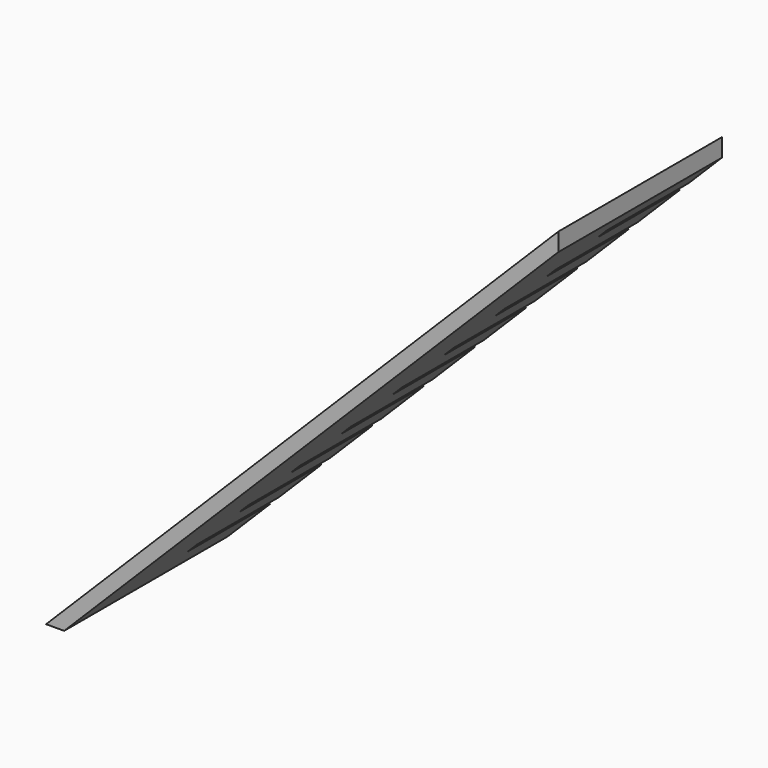
from build123d import *

# Parameters (mm, degrees)
F1_DEPTH = 152.4
F2_W     = 152.4
F2_H     = 19.05
F3_DEPTH = 19.05


with BuildPart() as f1:
    # F0 (on Front) → F1 (new body, symmetric)
    with BuildSketch(Plane.XZ):
        Polygon((341.7983155697, 763.3217702909), (-421.5234547212, 0), (-394.582686358, 0), (341.7983155697, 736.3810019277), align=None)
    extrude(amount=F1_DEPTH, both=True)

    # F2 (on face) → F3 (cut)
    with BuildSketch(Plane(origin=(-197.291343179, 0, 197.291343179), x_dir=(0, 1, 0), z_dir=(0.7071067812, 0, -0.7071067812))):
        with Locations((76.2, 683.0129067375)):
            Rectangle(F2_W, F2_H)
        with Locations((76.2, 575.0629067375)):
            Rectangle(F2_W, F2_H)
        with Locations((76.2, 467.1129067375)):
            Rectangle(F2_W, F2_H)
        with Locations((76.2, 359.1629067375)):
            Rectangle(F2_W, F2_H)
        with Locations((76.2, 251.2129067375)):
            Rectangle(F2_W, F2_H)
        with Locations((76.2, 143.2629067375)):
            Rectangle(F2_W, F2_H)
        with Locations((76.2, 35.3129067375)):
            Rectangle(F2_W, F2_H)
        with Locations((76.2, -72.6370932625)):
            Rectangle(F2_W, F2_H)
        with Locations((76.2, -180.5870932625)):
            Rectangle(F2_W, F2_H)
    extrude(amount=-F3_DEPTH, mode=Mode.SUBTRACT)


solid = f1.part
